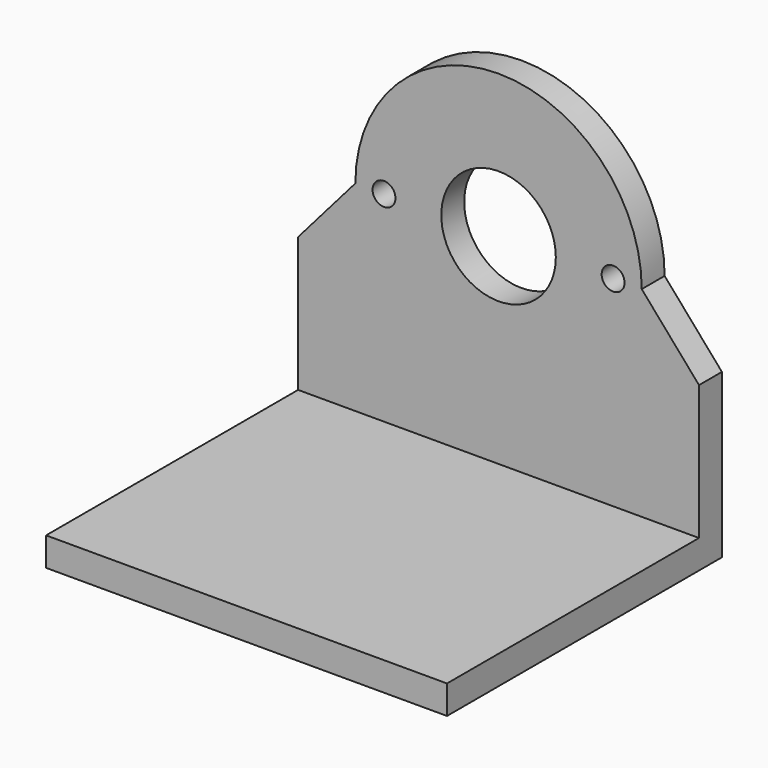
from build123d import *

# Parameters (mm, degrees)
F0_W     = 88.9
F0_H     = 6.35
F0_R     = 2.54
F0_R_2   = 12.7
F1_DEPTH = 6.35
F2_DEPTH = 76.2


with BuildPart() as f1:
    # F0 (on Front) → F1 (new body)
    with BuildSketch(Plane.XZ):
        with Locations((0, -47.625)):
            Rectangle(F0_W, F0_H)
        with BuildLine():
            Line((44.45, -14.607244), (31.75, 0))
            ThreePointArc((31.75, 0), (0, -31.75), (-31.75, 0))
            Line((-31.75, 0), (-44.45, -14.607244))
            Line((-44.45, -14.607244), (-44.45, -44.45))
            Line((-44.45, -44.45), (44.45, -44.45))
            Line((44.45, -44.45), (44.45, -14.607244))
        make_face()
        with BuildLine():
            ThreePointArc((-31.75, 0), (0, -31.75), (31.75, 0))
            ThreePointArc((31.75, 0), (0, 31.75), (-31.75, 0))
        make_face()
        with Locations((-25.4, 0)):
            Circle(F0_R, mode=Mode.SUBTRACT)
        Circle(F0_R_2, mode=Mode.SUBTRACT)
        with Locations((25.4, 0)):
            Circle(F0_R, mode=Mode.SUBTRACT)
    extrude(amount=F1_DEPTH)

    # F0 (on Front) → F2 (join)
    with BuildSketch(Plane.XZ):
        with Locations((0, -47.625)):
            Rectangle(F0_W, F0_H)
    extrude(amount=F2_DEPTH)


solid = f1.part
